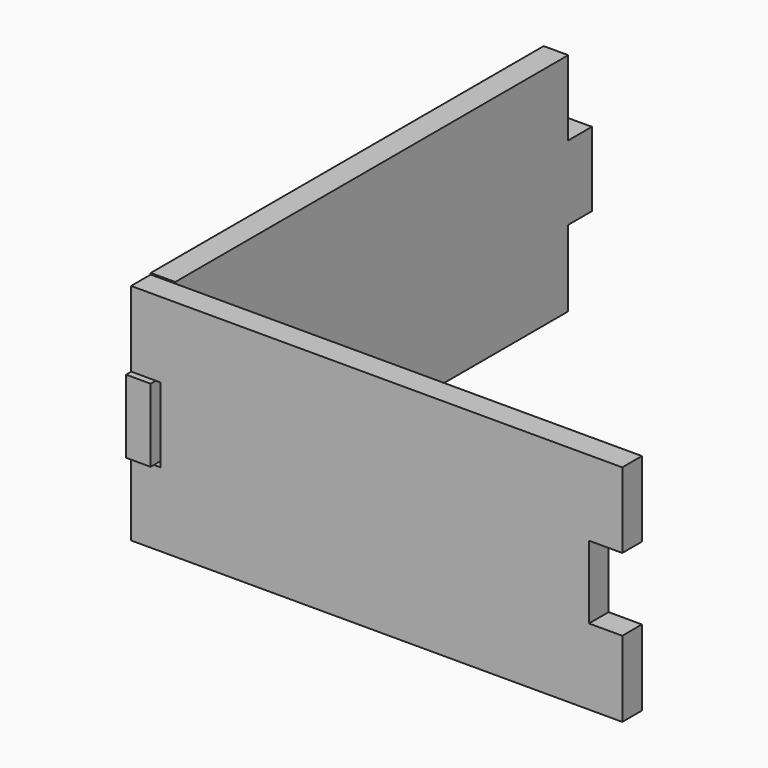
from build123d import *

# Parameters (mm, degrees)
F2_DEPTH = 10
F3_DEPTH = 10


with BuildPart() as f2:
    # F0 (on Front) → F2 (new body)
    with BuildSketch(Plane.XZ):
        Polygon((0, 30.096302), (0, 0), (200, 0), (200, 30.88115), (186.43856, 30.88115), (186.43856, 60.549472), (200, 60.549472), (200, 91.236152), (0, 91.236152), (0, 60.549472), (12.01473, 60.549472), (12.01473, 30.096302), align=None)
    extrude(amount=F2_DEPTH)

    # F1 (on Right) → F3 (join)
    with BuildSketch(Plane.YZ):
        Polygon((0, 30.661654), (0, 0), (200, 0), (200, 31.010987), (212.028906, 31.010987), (212.028906, 61.265942), (200, 61.265942), (200, 91.832541), (0, 91.832541), (0, 60.456097), (-12.524211, 60.456097), (-12.524211, 30.661654), align=None)
    extrude(amount=F3_DEPTH)


solid = f2.part
